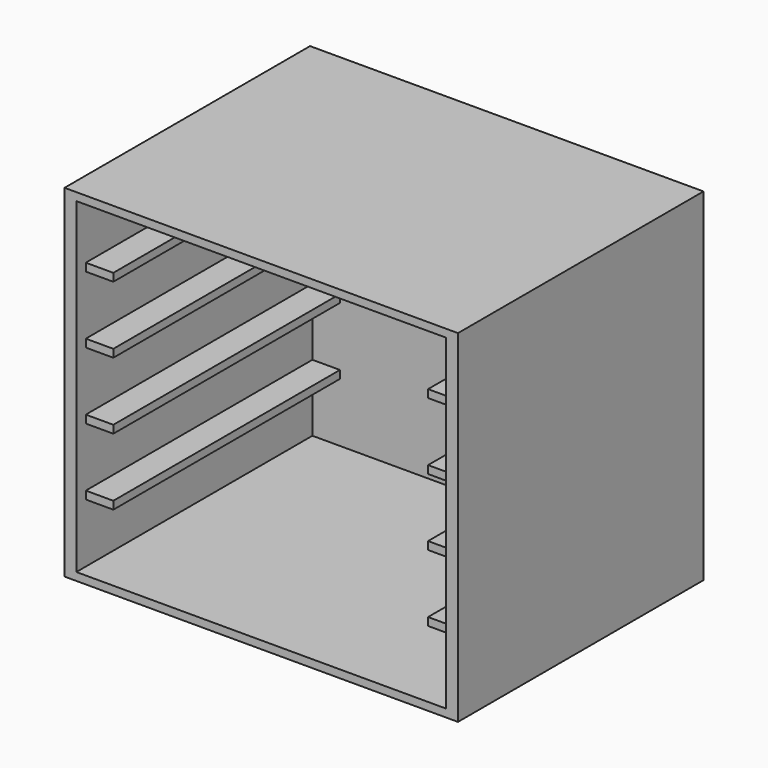
from build123d import *

# Parameters (mm, degrees)
F0_W     = 200
F0_H     = 174
F1_DEPTH = 156
F2_W     = 188
F2_H     = 166
F3_DEPTH = 150
F4_W     = 14
F4_H     = 4
F5_DEPTH = 150


with BuildPart() as f1:
    # F0 (on Front) → F1 (new body)
    with BuildSketch(Plane.XZ):
        Rectangle(F0_W, F0_H)
    extrude(amount=F1_DEPTH)

    # F2 (on face) → F3 (cut)
    with BuildSketch(Plane.XZ.offset(156)):
        Rectangle(F2_W, F2_H)
    extrude(amount=-F3_DEPTH, mode=Mode.SUBTRACT)


with BuildPart() as f5:
    # F4 (on Front) → F5 (new body)
    with BuildSketch(Plane.XZ):
        with Locations((-87, 51)):
            Rectangle(F4_W, F4_H)
        with Locations((-87, 17)):
            Rectangle(F4_W, F4_H)
        with Locations((-87, -17)):
            Rectangle(F4_W, F4_H)
        with Locations((-87, -51)):
            Rectangle(F4_W, F4_H)
        with Locations((87, -51)):
            Rectangle(F4_W, F4_H)
        with Locations((87, -17)):
            Rectangle(F4_W, F4_H)
        with Locations((87, 17)):
            Rectangle(F4_W, F4_H)
        with Locations((87, 51)):
            Rectangle(F4_W, F4_H)
    extrude(amount=F5_DEPTH)


solid = Compound([f1.part, f5.part])
